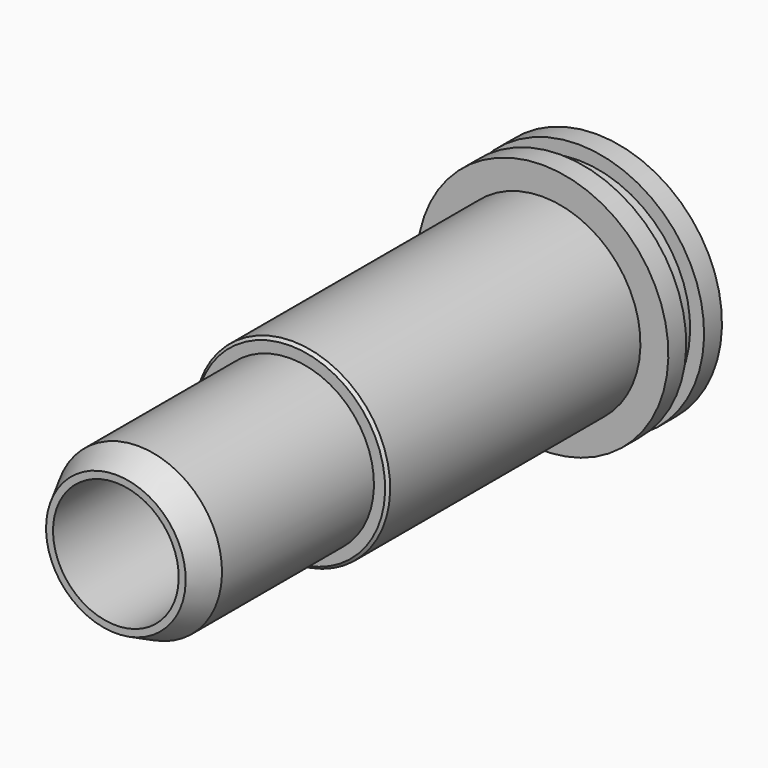
from build123d import *

# Parameters (mm, degrees)
F2_SIZE = 0.1


with BuildPart() as f1:
    # F0 (on Right) → F1 (revolve)
    with BuildSketch(Plane.YZ):
        Polygon((-21.5, 2.25), (0, 2.25), (0, 4.5), (-0.8, 4.5), (-0.8, 4), (-1.6, 4), (-1.6, 4.5), (-2.4, 4.5), (-2.4, 3.5), (-13.7, 3.5), (-13.7, 3), (-20.5, 3), (-21.5, 2.5), align=None)
    revolve(axis=Axis((0, -10.75, 0), (0, -1, 0)))

    # F2
    f2_edges = [f1.edges().sort_by_distance(p)[0] for p in [
        (0, -13.7, -3.5),
    ]]
    chamfer(f2_edges, length=F2_SIZE)


solid = f1.part
